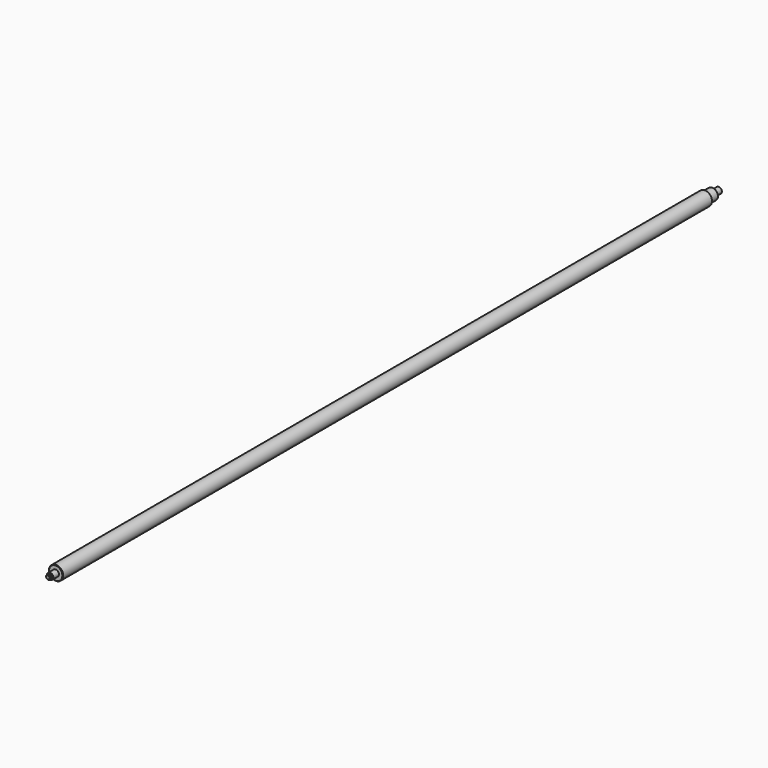
from build123d import *

# Parameters (mm, degrees)
F0_R       = 77.9740410351
F1_DEPTH   = 8890
F2_R       = 35.3941426272
F3_DEPTH   = 81.28
F4_R       = 23.9850349483
F1_FACE1_R = 77.9740410351
F5_DEPTH   = 25.4
F6_R       = 62.0491069306
F7_DEPTH   = 101.6
F8_R       = 34.4073238539
F9_DEPTH   = 88.9
F10_SIZE   = 5.08


with BuildPart() as f1:
    # F0 (on Front) → F1 (new body)
    with BuildSketch(Plane.XZ):
        Circle(F0_R)
    extrude(amount=-F1_DEPTH)

    # F2 (on face) → F3 (join)
    with BuildSketch(Plane.XZ):
        Circle(F2_R)
    extrude(amount=F3_DEPTH)

    # F4 (on face) + F1_face1 (on face) → F5 (join)
    with BuildSketch(Plane.XZ.offset(81.28)):
        Circle(F4_R)
    with BuildSketch(Plane(origin=(0, 8890, 0), x_dir=(1, 0, 0), z_dir=(0, 1, 0))):
        Circle(F1_FACE1_R)
    extrude(amount=F5_DEPTH, dir=(0, -1, 0))

    # F6 (on face) → F7 (join)
    with BuildSketch(Plane(origin=(0, 8890, 0), x_dir=(-1, 0, 0), z_dir=(0, 1, 0))):
        Circle(F6_R)
    extrude(amount=F7_DEPTH)

    # F8 (on face) → F9 (join)
    with BuildSketch(Plane(origin=(0, 8991.6, 0), x_dir=(-1, 0, 0), z_dir=(0, 1, 0))):
        Circle(F8_R)
    extrude(amount=F9_DEPTH)

    # F10
    f10_edges = [f1.edges().sort_by_distance(p)[0] for p in [
        (34.407324, 9080.5, 0),
        (62.049107, 8991.6, 0),
        (-77.974041, 8890, 0),
        (-77.974041, 0, 0),
        (-35.394143, -81.28, 0),
        (-23.985035, -106.68, 0),
    ]]
    chamfer(f10_edges, length=F10_SIZE)


solid = f1.part
